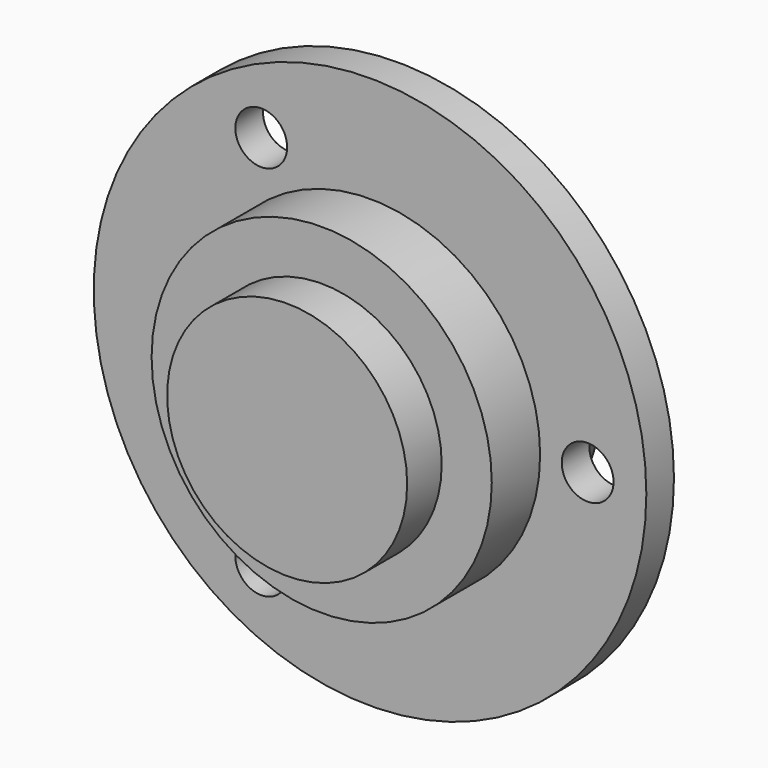
from build123d import *

# Parameters (mm, degrees)
SKETCH001_R        = 1.5
POCKET_DEPTH       = 109.668659
POLARPATTERN_COUNT = 3


with BuildPart() as part:
    # Sketch → Revolution (revolve)
    with BuildSketch(Plane.XY):
        with BuildLine():
            Line((0, 0), (0, 18.15))
            ThreePointArc((5.96381, 15), (3.373784, 17.316935), (0, 18.15))
            ThreePointArc((9.951065, 8), (8.693509, 11.919272), (5.96381, 15))
            Line((9.951065, 8), (16, 8))
            Line((16, 6), (16, 8))
            Line((9.85, 6), (16, 6))
            Line((9.85, 2.5), (9.85, 6))
            Line((6.95, 2.5), (9.85, 2.5))
            Line((6.95, 0), (6.95, 2.5))
            Line((0, 0), (6.95, 0))
        make_face()
    revolve(axis=Axis((0, 0, 0), (0, 1, 0)))

    # Sketch001 → Pocket (cut, through all)
    with BuildSketch(Plane.XZ.offset(-6)):
        with Locations((12.6, 0)):
            Circle(SKETCH001_R)
    pocket = extrude(amount=-POCKET_DEPTH, mode=Mode.SUBTRACT)

    # PolarPattern: Pocket ×3 about axis
    polarpattern_axis = Axis((0, 6, 0), (0, -1, 0))
    for i in range(1, POLARPATTERN_COUNT):
        add(pocket.rotate(polarpattern_axis, i * 360 / POLARPATTERN_COUNT), mode=Mode.SUBTRACT)


solid = part.part
